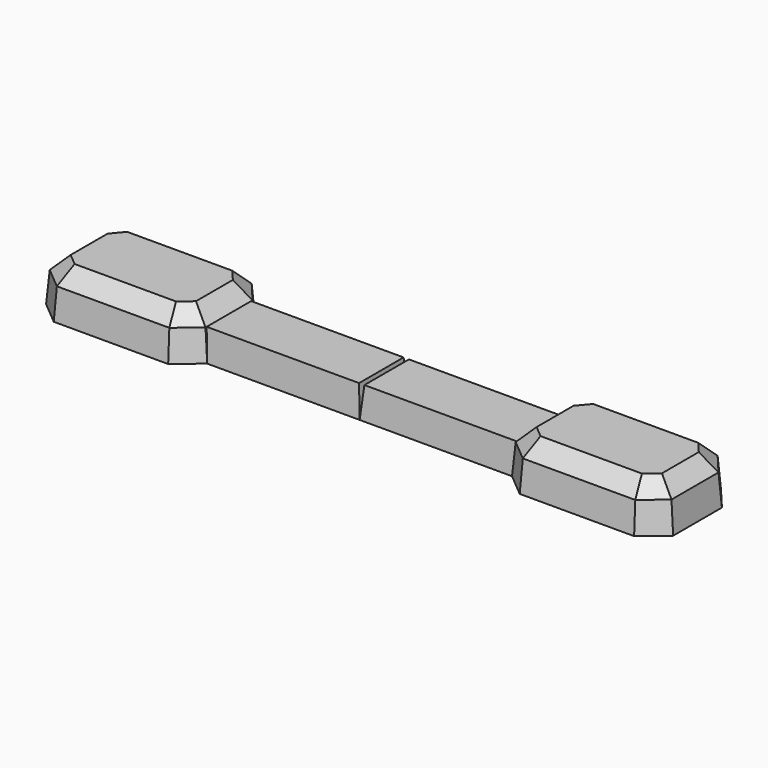
from build123d import *

# Parameters (mm, degrees)
F0_W     = 63.5
F0_H     = 25.4
F0_W_2   = 7.7363570929
F1_DEPTH = 12.7
F1_TAPER = 5
F2_DEPTH = 12.7
F2_TAPER = 5
F4_DEPTH = 6.35
F4_TAPER = 45


with BuildPart() as f1:
    # F0 (on Top) → F1 (new body)
    with BuildSketch(Plane.XY):
        with Locations((31.75, 0)):
            Rectangle(F0_W, F0_H)
        with Locations((67.3681785464, 0)):
            Rectangle(F0_W_2, F0_H)
    extrude(amount=F1_DEPTH, taper=F1_TAPER)

    # F0 (on Top) → F2 (join)
    with BuildSketch(Plane.XY):
        Polygon((71.663402643, 22.4287644276), (63.5, 12.7), (71.2363570929, 12.7), (71.2363570929, -12.7), (63.5, -12.7), (73.2287644276, -20.863402643), (120.8980408584, -20.863402643), (130.626805286, -12.7), (130.626805286, 12.7), (122.463402643, 22.4287644276), align=None)
        with Locations((67.3681785464, 0)):
            Rectangle(F0_W_2, F0_H)
    extrude(amount=F2_DEPTH, taper=F2_TAPER)

    # F3 (on face) → F4 (join)
    with BuildSketch(Plane.XY.offset(12.7)):
        Polygon((64.6111060268, 12.2955904791), (64.6111060268, 11.5888939732), (64.6111060268, -11.5888939732), (64.6111060268, -12.1818827507), (73.6331739485, -19.7522966162), (120.4936313376, -19.7522966162), (129.5156992593, -12.1818827507), (129.5156992593, 12.2955904791), (121.9452853937, 21.3176584008), (72.1815198923, 21.3176584008), align=None)
    extrude(amount=F4_DEPTH, taper=F4_TAPER)


with BuildPart() as f5_1:
    # F5: instance of F1
    add(f1.part.mirror(Plane.YZ))


solid = Compound([f1.part, f5_1.part])
